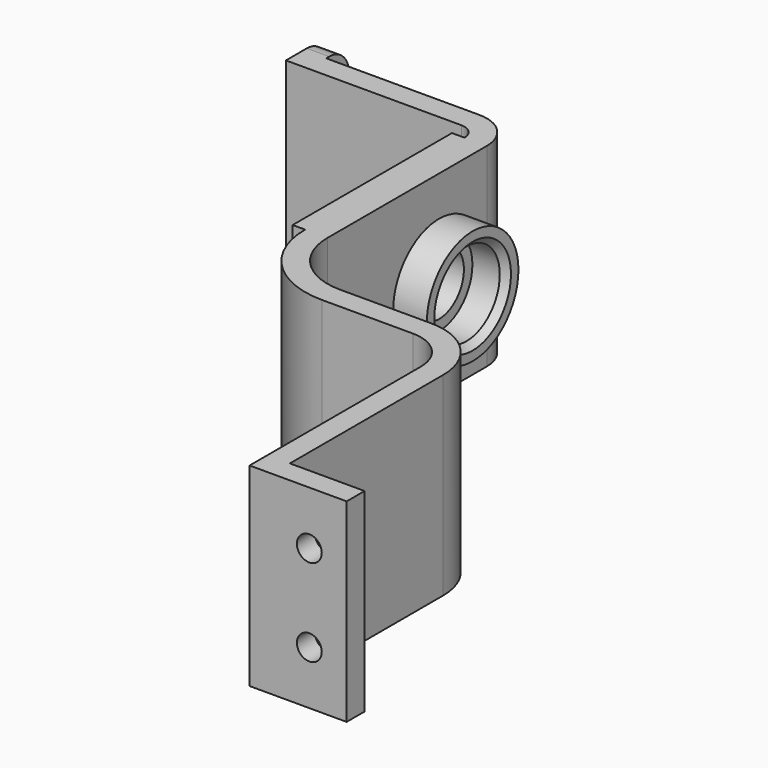
from build123d import *

# Parameters (mm, degrees)
PAD_DEPTH       = 15.6
SKETCH001_R     = 4.6
PAD001_DEPTH    = 2.7
SKETCH002_R     = 3.35
POCKET_DEPTH    = 2.7
SKETCH003_R     = 2.5
POCKET001_DEPTH = 15.301
SKETCH004_W     = 4.1
SKETCH004_H     = 15.6
PAD002_DEPTH    = 1.8
PAD003_DEPTH    = 10
SKETCH006_R     = 0.875
POCKET002_DEPTH = 8
SKETCH007_R     = 1
POCKET003_DEPTH = 48.501
FILLET_R        = 2
CHAMFER_SIZE    = 0.5
SKETCH008_W     = 16
SKETCH008_H     = 1.8
PAD004_DEPTH    = 1


with BuildPart() as part:
    # Sketch → Pad (new body)
    with BuildSketch(Plane.XY):
        with BuildLine():
            Line((0, 1.8), (0, 0))
            Line((0, 0), (12.300012, 0))
            ThreePointArc((13.5, -1.200002), (13.148533, -0.351477), (12.300012, 0))
            Line((13.5, -1.200002), (13.5, -17.200002))
            ThreePointArc((13.5, -17.200002), (15.491679, -22.008332), (20.300013, -24))
            Line((20.300013, -24), (27.6, -24))
            ThreePointArc((30.8, -27.2), (29.862742, -24.937258), (27.6, -24))
            Line((30.8, -27.2), (30.8, -44.4))
            Line((30.8, -44.4), (38.6, -44.4))
            Line((38.6, -42.6), (38.6, -44.4))
            Line((32.6, -42.6), (38.6, -42.6))
            Line((32.6, -27.2), (32.6, -42.6))
            ThreePointArc((32.6, -27.2), (31.135534, -23.664466), (27.6, -22.2))
            Line((20.300013, -22.2), (27.6, -22.2))
            ThreePointArc((15.3, -17.200002), (16.764472, -20.735539), (20.300013, -22.2))
            Line((15.3, -1.200002), (15.3, -17.200002))
            ThreePointArc((15.3, -1.200002), (14.421326, 0.921315), (12.300012, 1.8))
            Line((0, 1.8), (12.300012, 1.8))
        make_face()
    extrude(amount=PAD_DEPTH)

    # Sketch001 → Pad001 (new body)
    with BuildSketch(Plane.YZ.offset(15.3)):
        with Locations((-6, 7.8)):
            Circle(SKETCH001_R)
    extrude(amount=PAD001_DEPTH)

    # Sketch002 → Pocket (cut)
    with BuildSketch(Plane.YZ.offset(18)):
        with Locations((-6, 7.8)):
            Circle(SKETCH002_R)
    extrude(amount=-POCKET_DEPTH, mode=Mode.SUBTRACT)

    # Sketch003 → Pocket001 (cut, through all)
    with BuildSketch(Plane.YZ.offset(15.3)):
        with Locations((-6, 7.8)):
            Circle(SKETCH003_R)
    extrude(amount=-POCKET001_DEPTH, mode=Mode.SUBTRACT)

    # Sketch004 → Pad002 (new body)
    with BuildSketch(Plane(origin=(0, 0, 0), x_dir=(0, -1, 0), z_dir=(-1, 0, 0))):
        with Locations((-2.05, 7.8)):
            Rectangle(SKETCH004_W, SKETCH004_H)
    extrude(amount=PAD002_DEPTH)

    # Sketch005 → Pad003 (new body)
    with BuildSketch(Plane.YZ):
        with BuildLine():
            ThreePointArc((1.8, 5.822628), (4.1, 7.8), (1.8, 9.777372))
            Line((1.8, 9.777372), (1.8, 5.822628))
        make_face()
    extrude(amount=PAD003_DEPTH)

    # Sketch006 → Pocket002 (cut)
    with BuildSketch(Plane(origin=(-1.8, 0, 0), x_dir=(0, -1, 0), z_dir=(-1, 0, 0))):
        with Locations((-2, 7.8)):
            Circle(SKETCH006_R)
    extrude(amount=-POCKET002_DEPTH, mode=Mode.SUBTRACT)

    # Sketch007 → Pocket003 (cut, through all)
    with BuildSketch(Plane.XZ.offset(44.4)):
        with Locations((35.6, 11.3)):
            Circle(SKETCH007_R)
        with Locations((35.6, 4.3)):
            Circle(SKETCH007_R)
    extrude(amount=-POCKET003_DEPTH, mode=Mode.SUBTRACT)

    # Fillet
    fillet_edges = [part.edges().sort_by_distance(p)[0] for p in [
        (-0.9, 4.1, 0),
        (-0.9, 4.1, 15.6),
    ]]
    fillet(fillet_edges, radius=FILLET_R)

    # Chamfer
    chamfer_edges = [part.edges().sort_by_distance(p)[0] for p in [
        (18, -9.35, 7.8),
    ]]
    chamfer(chamfer_edges, length=CHAMFER_SIZE)

    # Sketch008 → Pad004 (new body)
    with BuildSketch(Plane(origin=(13.5, 0, 0), x_dir=(0, -1, 0), z_dir=(-1, 0, 0))):
        with Locations((9.200002, 14.7)):
            Rectangle(SKETCH008_W, SKETCH008_H)
        with Locations((9.200002, 0.9)):
            Rectangle(SKETCH008_W, SKETCH008_H)
    extrude(amount=PAD004_DEPTH)


solid = part.part
